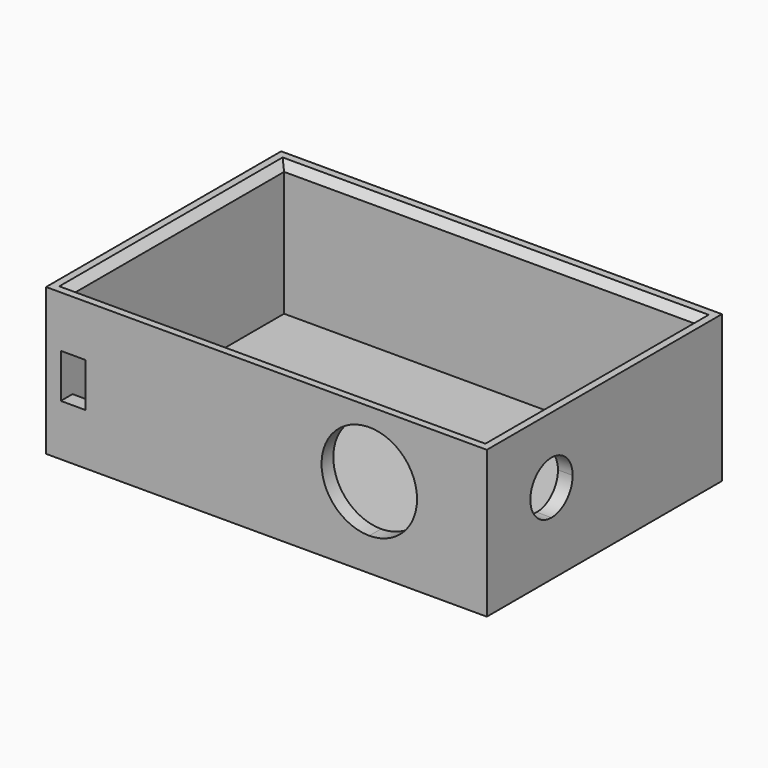
from build123d import *

# Parameters (mm, degrees)
F0_W      = 76.2
F0_H      = 50.8
F1_DEPTH  = 2.54
F3_DEPTH  = 22.86
F5_DEPTH  = 25.4
F7_DEPTH  = 25.4
F8_W      = 4.318
F8_H      = 7.62
F9_DEPTH  = 25.4
F10_W     = 5.08
F10_H     = 2.54
F11_DEPTH = 25.4
F12_SIZE  = 1.27


with BuildPart() as f1:
    # F0 (on Top) → F1 (new body)
    with BuildSketch(Plane.XY):
        with Locations((5.156827, 0.141645)):
            Rectangle(F0_W, F0_H)
    extrude(amount=F1_DEPTH)

    # F2 (on face) → F3 (join)
    with BuildSketch(Plane.XY.offset(2.54)):
        Polygon((-30.403173, -22.718355), (-30.403173, 23.001645), (40.716827, 23.001645), (40.716827, -5.898658), (43.256827, -5.898658), (43.256827, 25.541645), (-32.943173, 25.541645), (-32.943173, -25.258355), (19.057203, -25.258355), (19.057203, -22.718355), align=None)
        Polygon((43.256827, -5.898658), (40.716827, -5.898658), (40.716827, -22.718355), (19.057203, -22.718355), (19.057203, -25.258355), (43.256827, -25.258355), align=None)
    extrude(amount=F3_DEPTH)

    # F4 (on face) → F5 (cut)
    with BuildSketch(Plane.XZ.offset(25.258355)):
        with BuildLine():
            Line((22.936827, 13.97), (31.191827, 13.97))
            ThreePointArc((31.191827, 13.97), (17.09966, 19.807166), (22.936827, 5.715))
            Line((22.936827, 5.715), (22.936827, 13.97))
        make_face()
        with BuildLine():
            ThreePointArc((22.936827, 5.715), (28.773993, 8.132834), (31.191827, 13.97))
            Line((31.191827, 13.97), (22.936827, 13.97))
            Line((22.936827, 13.97), (22.936827, 5.715))
        make_face()
    extrude(amount=-F5_DEPTH, mode=Mode.SUBTRACT)

    # F6 (on face) → F7 (cut)
    with BuildSketch(Plane.YZ.offset(43.256827)):
        with BuildLine():
            ThreePointArc((-11.288355, 9.398), (-8.055463, 10.737108), (-6.716355, 13.97))
            ThreePointArc((-6.716355, 13.97), (-11.288355, 18.542), (-15.860355, 13.97))
            Line((-15.860355, 13.97), (-11.288355, 13.97))
            Line((-11.288355, 13.97), (-11.288355, 9.398))
        make_face()
        with BuildLine():
            Line((-11.288355, 13.97), (-15.860355, 13.97))
            ThreePointArc((-15.860355, 13.97), (-14.521247, 10.737108), (-11.288355, 9.398))
            Line((-11.288355, 9.398), (-11.288355, 13.97))
        make_face()
    extrude(amount=-F7_DEPTH, mode=Mode.SUBTRACT)

    # F8 (on face) → F9 (cut)
    with BuildSketch(Plane.XZ.offset(25.258355)):
        with Locations((-28.244173, 12.7)):
            Rectangle(F8_W, F8_H)
    extrude(amount=-F9_DEPTH, mode=Mode.SUBTRACT)

    # F10 (on face) → F11 (cut)
    with BuildSketch(Plane(origin=(-32.943173, 0, 0), x_dir=(0, -1, 0), z_dir=(-1, 0, 0))):
        with Locations((4.938355, 3.81)):
            Rectangle(F10_W, F10_H)
    extrude(amount=-F11_DEPTH, mode=Mode.SUBTRACT)

    # F12
    f12_edges = [f1.edges().sort_by_distance(p)[0] for p in [
        (5.156827, 23.001645, 25.4),
        (-30.403173, 0.141645, 25.4),
        (40.716827, 0.141645, 25.4),
        (5.156827, -22.718355, 25.4),
    ]]
    chamfer(f12_edges, length=F12_SIZE)


solid = f1.part
